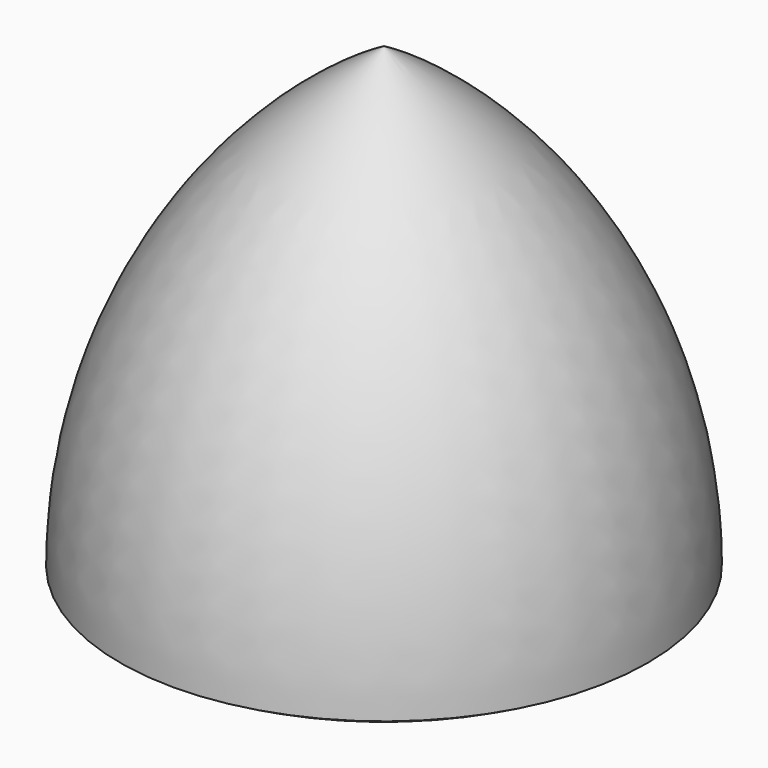
from build123d import *


with BuildPart() as f1:
    # F0 (on Front) → F1 (revolve)
    with BuildSketch(Plane.XZ):
        with BuildLine():
            ThreePointArc((0, 65.991136), (-27.891136, 38.1), (-38.1, 0))
            Line((-38.1, 0), (0, 65.991136))
        make_face()
        Polygon((0, 65.991136), (-38.1, 0), (0, 0), align=None)
        with BuildLine():
            Line((0, 0), (-38.1, 0))
            ThreePointArc((-38.1, 0), (-19.722011, -7.612412), (0, -10.208864))
            Line((0, -10.208864), (0, 0))
        make_face()
    revolve(axis=Axis((0, 0, 27.891136), (0, 0, -1)))


solid = f1.part
